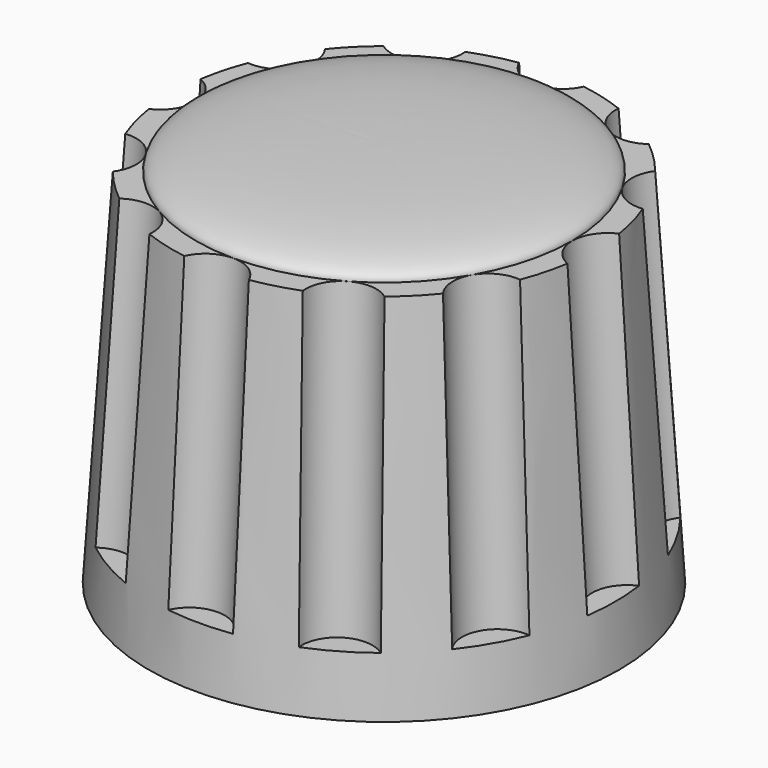
from build123d import *

# Parameters (mm, degrees)
SKETCH015_R           = 1.5
POLARPATTERN001_COUNT = 12


with BuildPart() as part:
    # Sketch014 (on XZ_Plane006 of Origin012) → Revolution (revolve)
    with BuildSketch(Plane.XZ):
        Polygon((0, 10), (-3, 10), (-3, 0), (-10, 0), (-9, 15.4), (0, 15.4), align=None)
    revolve(axis=Axis((0, 0, 0), (0, 0, 1)))

    # SubtractivePipe: sweep along a path in Sketch016
    with BuildLine(Plane.XZ) as subtractivepipe_path:
        Line((-9, 15.4), (-9.837662, 2.5))
    # Sketch015 (on Face5 of Revolution) → SubtractivePipe (sweep, cut)
    with BuildSketch(Plane.XY.offset(15.4)):
        with Locations((-9.5, 0)):
            Circle(SKETCH015_R)
    subtractivepipe = sweep(path=subtractivepipe_path.line, mode=Mode.SUBTRACT)

    # PolarPattern001: SubtractivePipe ×12 about axis
    polarpattern001_axis = Axis((0, 0, 15.4), (0, 0, 1))
    for i in range(1, POLARPATTERN001_COUNT):
        add(subtractivepipe.rotate(polarpattern001_axis, i * 360 / POLARPATTERN001_COUNT), mode=Mode.SUBTRACT)

    # Sketch017 (on XZ_Plane006 of Origin012) → Revolution001 (revolve)
    with BuildSketch(Plane.XZ):
        with BuildLine():
            Line((0, 15.4), (-8, 15.4))
            add(Edge.make_bspline(
                [(-8, 15.4), (-8, 16.4), (0, 16.4)],
                knots=[0, 0, 0, 1, 1, 1], degree=2))
            Line((0, 16.4), (0, 15.4))
        make_face()
    revolve(axis=Axis((0, 0, 0), (0, 0, 1)))


with BuildPart() as part_1:
    # Body004 placement: moved
    add(part.part.moved(Location((68, 20, 3.3))))


solid = part_1.part
